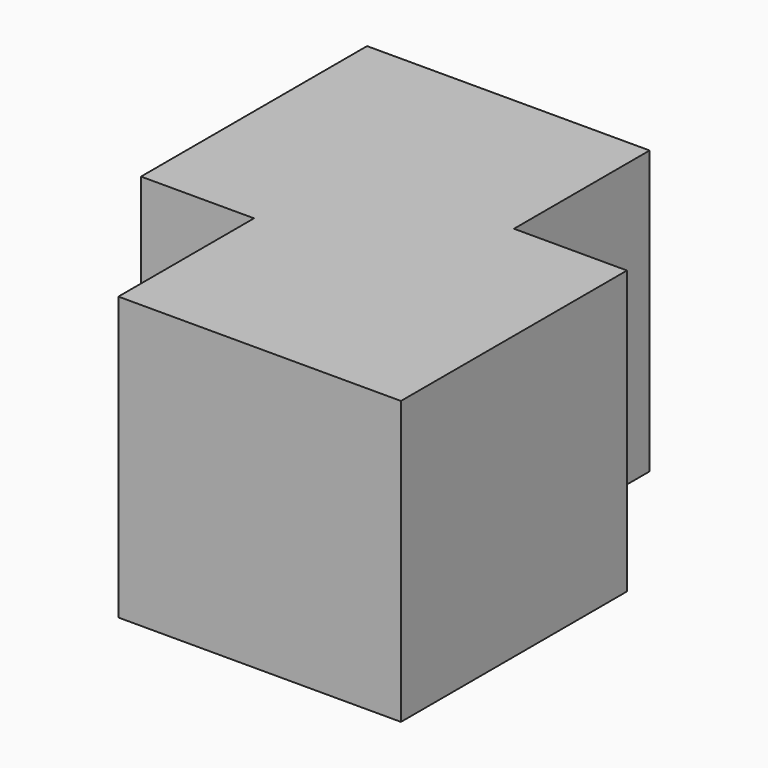
from build123d import *

# Parameters (mm, degrees)
BOX001_W     = 10
BOX001_H     = 10
BOX001_DEPTH = 10
BOX_W        = 10
BOX_H        = 10
BOX_DEPTH    = 10


with BuildPart() as cubo001:
    # Box001 → Box001 (new body)
    with BuildSketch(Plane(origin=(4, -6, 0), x_dir=(1, 0, 0), z_dir=(0, 0, 1))):
        with Locations((5, 5)):
            Rectangle(BOX001_W, BOX001_H)
    extrude(amount=BOX001_DEPTH)


with BuildPart() as fusion:
    # Box → Box (new body)
    with BuildSketch(Plane.XY):
        with Locations((5, 5)):
            Rectangle(BOX_W, BOX_H)
    extrude(amount=BOX_DEPTH)

    # Fusion: union Cubo001
    add(cubo001.part)


solid = fusion.part
